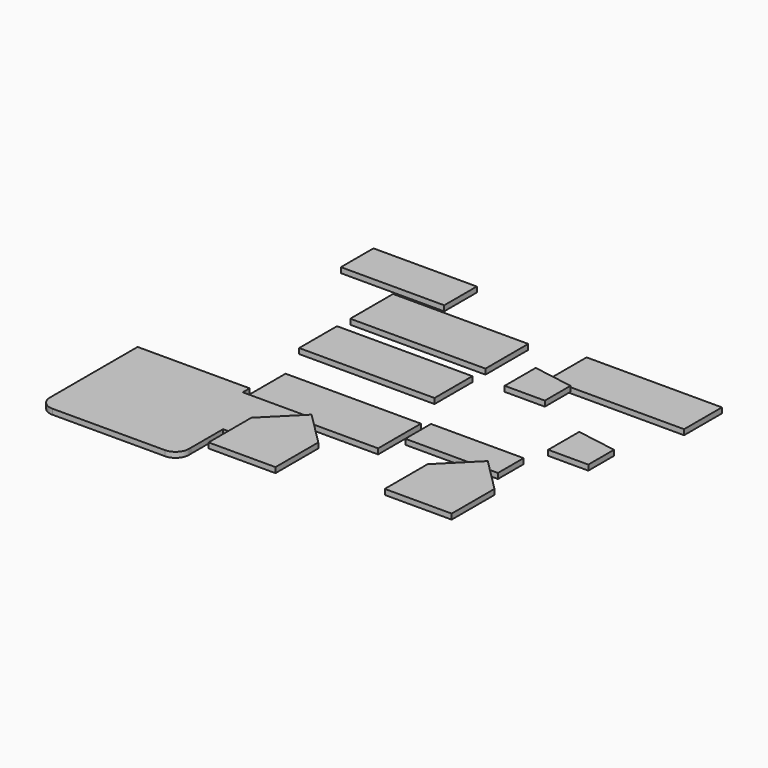
from build123d import *

# Parameters (mm, degrees)
F0_W      = 50.592
F0_H      = 20
F1_DEPTH  = 2
F2_W      = 50.529
F2_H      = 20
F3_DEPTH  = 2
F4_W      = 50.592
F4_H      = 17.678
F5_DEPTH  = 2
F6_W      = 50.592
F6_H      = 17.678
F7_DEPTH  = 2
F9_DEPTH  = 2
F11_DEPTH = 2
F13_DEPTH = 2
F15_DEPTH = 2
F16_W     = 38.612
F16_H     = 15.207
F17_DEPTH = 2
F19_DEPTH = 2
F20_W     = 34.612
F20_H     = 12
F21_DEPTH = 2


with BuildPart() as f1:
    # F0 (on Top) → F1 (new body)
    with BuildSketch(Plane.XY):
        with Locations((-18.267832, -15.437623)):
            Rectangle(F0_W, F0_H)
    extrude(amount=F1_DEPTH)


with BuildPart() as f3:
    # F2 (on Top) → F3 (new body)
    with BuildSketch(Plane.XY):
        with Locations((-25.2645, 43.497933)):
            Rectangle(F2_W, F2_H)
    extrude(amount=F3_DEPTH)


with BuildPart() as f5:
    # F4 (on Top) → F5 (new body)
    with BuildSketch(Plane.XY):
        with Locations((-25.296, 18.540088)):
            Rectangle(F4_W, F4_H)
    extrude(amount=F5_DEPTH)


with BuildPart() as f7:
    # F6 (on face) → F7 (new body)
    with BuildSketch(Plane.XY.offset(2)):
        with Locations((46.305613, 45.653364)):
            Rectangle(F6_W, F6_H)
    extrude(amount=F7_DEPTH)


with BuildPart() as f9:
    # F8 (on face) → F9 (new body)
    with BuildSketch(Plane.XY.offset(4)):
        Polygon((41.851087, -17.719843), (29.351087, -30.219843), (29.351087, -50.219843), (33.131574, -50.219843), (50.5706, -50.219843), (54.351087, -50.219843), (54.351087, -30.219843), align=None)
    extrude(amount=F9_DEPTH)

    # F20 (on face) → F21 (join)
    with BuildSketch(Plane.XY.offset(2)):
        with Locations((29.142566, -12.735494)):
            Rectangle(F20_W, F20_H)
    extrude(amount=F21_DEPTH)


with BuildPart() as f11:
    # F10 (on face) → F11 (new body)
    with BuildSketch(Plane.XY.offset(6)):
        Polygon((-14.253861, -29.911844), (-26.753861, -42.411844), (-26.753861, -62.411844), (-1.753861, -62.411844), (-1.753861, -42.411844), align=None)
    extrude(amount=F11_DEPTH)


with BuildPart() as f13:
    # F12 (on face) → F13 (new body)
    with BuildSketch(Plane.XY.offset(8)):
        Polygon((20.770659, 28.525631), (20.770659, 16.525631), (35.770659, 16.525631), (35.770659, 28.525631), (20.770659, 31.025631), align=None)
    extrude(amount=F13_DEPTH)


with BuildPart() as f15:
    # F14 (on Top) → F15 (new body)
    with BuildSketch(Plane.XY):
        Polygon((46.350436, 16.879594), (46.350436, 4.879594), (61.350436, 4.879594), (61.350436, 16.879594), (46.350436, 19.379594), align=None)
    extrude(amount=F15_DEPTH)


with BuildPart() as f17:
    # F16 (on face) → F17 (new body)
    with BuildSketch(Plane.XY.offset(2)):
        with Locations((-51.305815, 61.842361)):
            Rectangle(F16_W, F16_H)
    extrude(amount=F17_DEPTH)


with BuildPart() as f19:
    # F18 (on face) → F19 (new body)
    with BuildSketch(Plane.XY.offset(2)):
        with BuildLine():
            Line((-33.477804, -63.147744), (-33.484528, -62.223211))
            Line((-33.484528, -62.223211), (-33.484528, -47.223211))
            Line((-33.484528, -47.223211), (-18.98453, -47.223211))
            Line((-18.98453, -47.223211), (-18.98453, -25.437623))
            Line((-18.98453, -25.437623), (-43.563832, -25.437623))
            Line((-43.563832, -25.437623), (-43.563832, -22.223211))
            Line((-43.563832, -22.223211), (-85.446797, -22.223211))
            Line((-85.446797, -22.223211), (-85.446797, -47.223211))
            Line((-85.446797, -47.223211), (-85.446797, -63.238602))
            ThreePointArc((-85.446797, -63.238602), (-83.980035, -66.77643), (-80.440306, -68.238598))
            Line((-80.440306, -68.238598), (-38.47118, -68.184107))
            ThreePointArc((-38.47118, -68.184107), (-34.927017, -66.70446), (-33.477804, -63.147744))
        make_face()
    extrude(amount=F19_DEPTH)


solid = Compound([f1.part, f3.part, f5.part, f7.part, f9.part, f11.part, f13.part, f15.part, f17.part, f19.part])
